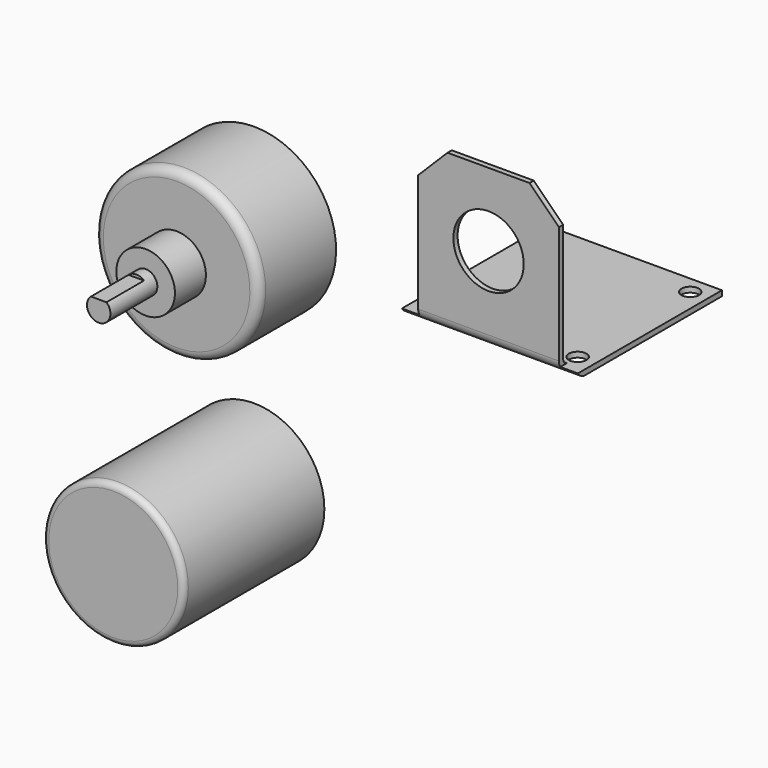
from build123d import *

# Parameters (mm, degrees)
F0_R      = 12
F1_DEPTH  = 30
F2_R      = 1
F4_DEPTH  = 15
F5_R      = 1.5
F6_DEPTH  = 12.901
F7_W      = 3
F7_H      = 1
F7_R      = 6
F8_DEPTH  = 31.001
F10_W     = 8
F10_H     = 0.5
F11_DEPTH = 12.5
F12_R     = 1.5


with BuildPart() as f1:
    # F0 (on Front) → F1 (new body)
    with BuildSketch(Plane.XZ):
        Circle(F0_R)
    extrude(amount=F1_DEPTH)

    # F2
    f2_edges = [f1.edges().sort_by_distance(p)[0] for p in [
        (-12, -30, 0),
    ]]
    fillet(f2_edges, radius=F2_R)


with BuildPart() as f4:
    # F3 (on Right) → F4 (new body, symmetric)
    with BuildSketch(Plane.YZ):
        with BuildLine():
            Line((51.9, 0), (81, 0))
            Line((81, 0), (81, 0.9))
            Line((81, 0.9), (51.9, 0.9))
            ThreePointArc((51.9, 0.9), (51.1928932188, 1.1928932188), (50.9, 1.9))
            Line((50.9, 1.9), (50.9, 27))
            Line((50.9, 27), (50, 27))
            Line((50, 27), (50, 1.9))
            ThreePointArc((50, 1.9), (50.5564971157, 0.5564971157), (51.9, 0))
        make_face()
    extrude(amount=F4_DEPTH, both=True)

    # F5 (on face) → F6 (cut, through all)
    with BuildSketch(Plane.XY.offset(0.9)):
        with Locations((-12, 78)):
            Circle(F5_R)
        with Locations((12, 78)):
            Circle(F5_R)
        with Locations((-12, 54)):
            Circle(F5_R)
        with Locations((12, 54)):
            Circle(F5_R)
    extrude(amount=-F6_DEPTH, mode=Mode.SUBTRACT)

    # F7 (on face) → F8 (cut, through all)
    with BuildSketch(Plane.XZ.offset(-50)):
        Polygon((-7, 27), (-15, 27), (-15, 1.9), (-12, 1.9), (-12, 22), align=None)
        Polygon((15, 27), (7, 27), (12, 22), (12, 1.9), (15, 1.9), align=None)
        with Locations((-13.5, 1.4)):
            Rectangle(F7_W, F7_H)
        with Locations((13.5, 1.4)):
            Rectangle(F7_W, F7_H)
        with Locations((0, 14.5)):
            Circle(F7_R)
    extrude(amount=-F8_DEPTH, mode=Mode.SUBTRACT)


with BuildPart() as f9:
    # F3 (on Right) → F9 (revolve)
    with BuildSketch(Plane.YZ):
        Polygon((-33.1, 39.5331345499), (0, 39.5331345499), (0, 53.5331345499), (-16.5, 53.5331345499), (-16.5, 44.5331345499), (-23.1, 44.5331345499), (-23.1, 41.5331345499), (-33.1, 41.5331345499), align=None)
    revolve(axis=Axis((0, -16.55, 39.5331345499), (0, -1, 0)))

    # F10 (on Right) → F11 (cut, symmetric)
    with BuildSketch(Plane.YZ):
        with Locations((-29.1, 41.2831345499)):
            Rectangle(F10_W, F10_H)
    extrude(amount=F11_DEPTH, both=True, mode=Mode.SUBTRACT)

    # F12
    f12_edges = [f9.edges().sort_by_distance(p)[0] for p in [
        (0, -16.5, 25.533135),
    ]]
    fillet(f12_edges, radius=F12_R)


solid = Compound([f1.part, f4.part, f9.part])
